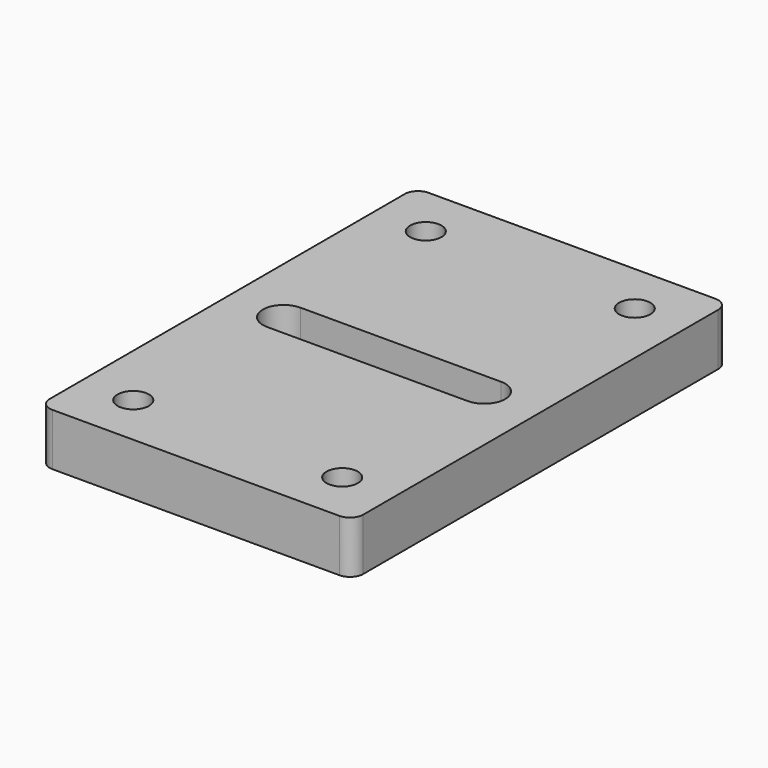
from build123d import *

# Parameters (mm, degrees)
F0_R     = 1.905
F1_DEPTH = 6.35


with BuildPart() as f1:
    # F0 (on Top) → F1 (new body)
    with BuildSketch(Plane.XY):
        with BuildLine():
            ThreePointArc((0, 1.6002), (0.468688, 0.468688), (1.6002, 0))
            Line((1.6002, 0), (36.4998, 0))
            ThreePointArc((36.4998, 0), (37.631312, 0.468688), (38.1, 1.6002))
            Line((38.1, 1.6002), (38.1, 55.5498))
            ThreePointArc((38.1, 55.5498), (37.631312, 56.681312), (36.4998, 57.15))
            Line((36.4998, 57.15), (1.6002, 57.15))
            ThreePointArc((1.6002, 57.15), (0.468688, 56.681312), (0, 55.5498))
            Line((0, 55.5498), (0, 1.6002))
        make_face()
        with Locations((6.35, 6.35)):
            Circle(F0_R, mode=Mode.SUBTRACT)
        with Locations((31.75, 6.35)):
            Circle(F0_R, mode=Mode.SUBTRACT)
        with Locations((6.35, 50.8)):
            Circle(F0_R, mode=Mode.SUBTRACT)
        with BuildLine():
            ThreePointArc((6.858, 26.035), (4.318, 28.575), (6.858, 31.115))
            Line((6.858, 31.115), (31.242, 31.115))
            ThreePointArc((31.242, 31.115), (33.038051, 30.371051), (33.782, 28.575))
            ThreePointArc((33.782, 28.575), (33.038051, 26.778949), (31.242, 26.035))
            Line((31.242, 26.035), (6.858, 26.035))
        make_face(mode=Mode.SUBTRACT)
        with Locations((31.75, 50.8)):
            Circle(F0_R, mode=Mode.SUBTRACT)
    extrude(amount=F1_DEPTH)


solid = f1.part
